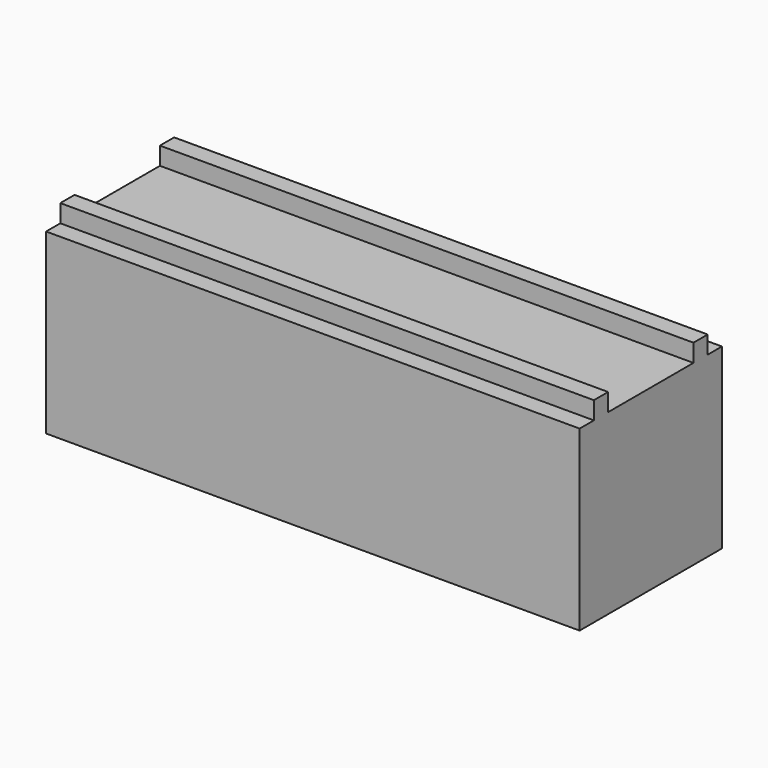
from build123d import *

# Parameters (mm, degrees)
F0_W     = 300
F0_H     = 100
F1_DEPTH = 50
F3_W     = 10
F3_H     = 10
F4_DEPTH = 300


with BuildPart() as f1:
    # F0 (on Top) → F1 (new body, symmetric)
    with BuildSketch(Plane.XY):
        Rectangle(F0_W, F0_H)
    extrude(amount=F1_DEPTH, both=True)

    # F3 (on face) → F4 (join)
    with BuildSketch(Plane(origin=(-150, 0, 0), x_dir=(0, -1, 0), z_dir=(-1, 0, 0))):
        with Locations((35, 55)):
            Rectangle(F3_W, F3_H)
        with Locations((-35, 55)):
            Rectangle(F3_W, F3_H)
    extrude(amount=-F4_DEPTH)


solid = f1.part
